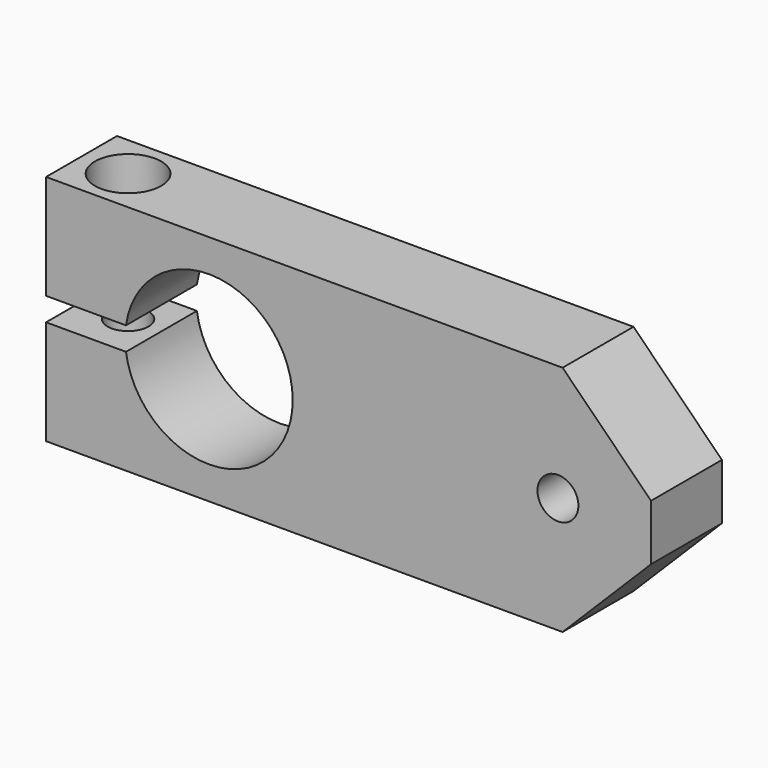
from build123d import *

# Parameters (mm, degrees)
F0_W           = 130
F0_H           = 50
F1_DEPTH       = 19.05
F2_R           = 18
F3_DEPTH       = 40
F4_D           = 8.8
F4_CBORE_D     = 14.25
F4_CBORE_DEPTH = 8
F6_D           = 8.8
F6_CBORE_D     = 14.25
F6_CBORE_DEPTH = 8
F7_W           = 21.662
F7_H           = 5
F8_DEPTH       = 40
F10_DEPTH      = 25


with BuildPart() as f1:
    # F0 (on Front) → F1 (new body)
    with BuildSketch(Plane.XZ):
        with Locations((65, 25)):
            Rectangle(F0_W, F0_H)
    extrude(amount=F1_DEPTH)

    # F2 (on Front) → F3 (cut)
    with BuildSketch(Plane.XZ):
        with Locations((35, 25)):
            Circle(F2_R)
    extrude(amount=F3_DEPTH, mode=Mode.SUBTRACT)

    # F4 (through all)
    with Locations(Plane(origin=(0, 0, 0), x_dir=(1, 0, 0), z_dir=(0, 1, 0))):
        with Locations((110, -25)):
            CounterBoreHole(F4_D / 2, F4_CBORE_D / 2, F4_CBORE_DEPTH)

    # F6 (through all)
    with Locations(Plane.XY.offset(50)):
        with Locations((10, -9.525)):
            CounterBoreHole(F6_D / 2, F6_CBORE_D / 2, F6_CBORE_DEPTH)

    # F7 (on face) → F8 (cut)
    with BuildSketch(Plane(origin=(0, 0, 0), x_dir=(-1, 0, 0), z_dir=(0, 1, 0))):
        with Locations((-10.831, 25)):
            Rectangle(F7_W, F7_H)
    extrude(amount=-F8_DEPTH, mode=Mode.SUBTRACT)

    # F9 (on face) → F10 (cut)
    with BuildSketch(Plane(origin=(0, 0, 0), x_dir=(-1, 0, 0), z_dir=(0, 1, 0))):
        Polygon((-130, 19), (-130, 0), (-111, 0), align=None)
        Polygon((-130, 50), (-130, 31), (-111, 50), align=None)
    extrude(amount=-F10_DEPTH, mode=Mode.SUBTRACT)


solid = f1.part
